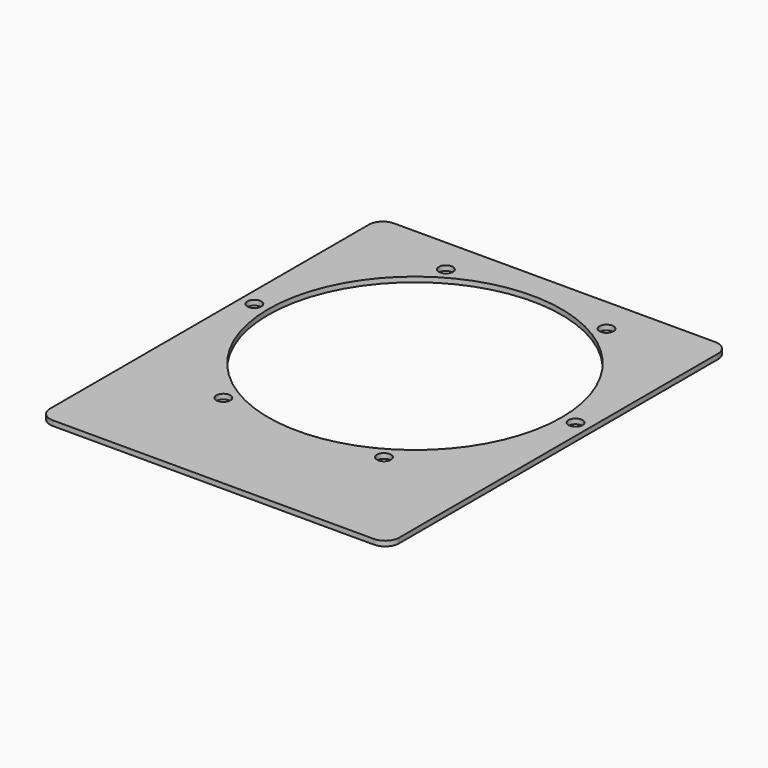
from build123d import *

# Parameters (mm, degrees)
F0_R     = 66.675
F1_DEPTH = 2.286
F2_R     = 3.175
F3_DEPTH = 25.4


with BuildPart() as f1:
    # F0 (on Top) → F1 (new body)
    with BuildSketch(Plane.XY):
        with BuildLine():
            Line((73.025, 79.375), (-73.025, 79.375))
            ThreePointArc((-73.025, 79.375), (-77.515128, 77.515128), (-79.375, 73.025))
            Line((-79.375, 73.025), (-79.375, -108.204))
            ThreePointArc((-79.375, -108.204), (-77.515128, -112.694128), (-73.025, -114.554))
            Line((-73.025, -114.554), (73.025, -114.554))
            ThreePointArc((73.025, -114.554), (77.515128, -112.694128), (79.375, -108.204))
            Line((79.375, -108.204), (79.375, 73.025))
            ThreePointArc((79.375, 73.025), (77.515128, 77.515128), (73.025, 79.375))
        make_face()
        Circle(F0_R, mode=Mode.SUBTRACT)
        with BuildLine():
            Line((73.025, 79.375), (-73.025, 79.375))
            ThreePointArc((-73.025, 79.375), (-77.515128, 77.515128), (-79.375, 73.025))
            Line((-79.375, 73.025), (-79.375, -108.204))
            ThreePointArc((-79.375, -108.204), (-77.515128, -112.694128), (-73.025, -114.554))
            Line((-73.025, -114.554), (73.025, -114.554))
            ThreePointArc((73.025, -114.554), (77.515128, -112.694128), (79.375, -108.204))
            Line((79.375, -108.204), (79.375, 73.025))
            ThreePointArc((79.375, 73.025), (77.515128, 77.515128), (73.025, 79.375))
        make_face()
        Circle(F0_R, mode=Mode.SUBTRACT)
    extrude(amount=F1_DEPTH)

    # F2 (on face) → F3 (cut)
    with BuildSketch(Plane.XY):
        with Locations((-73.025, 0)):
            Circle(F2_R)
        with Locations((-36.5125, -63.241505)):
            Circle(F2_R)
        with Locations((36.5125, -63.241505)):
            Circle(F2_R)
        with Locations((73.025, 0)):
            Circle(F2_R)
        with Locations((36.5125, 63.241505)):
            Circle(F2_R)
        with Locations((-36.5125, 63.241505)):
            Circle(F2_R)
    extrude(amount=F3_DEPTH, mode=Mode.SUBTRACT)


solid = f1.part
